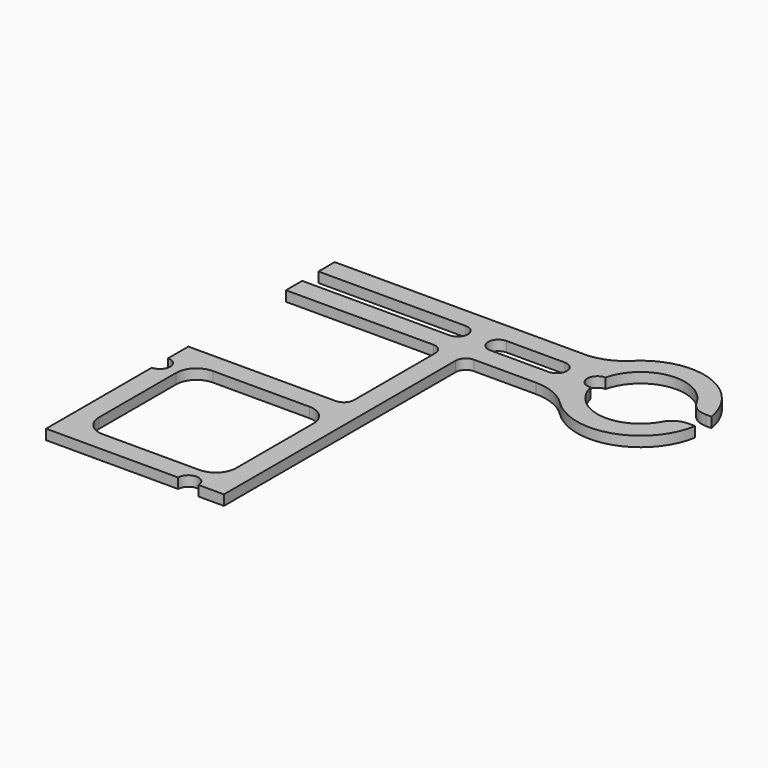
from build123d import *

# Parameters (mm, degrees)
SKETCH_W    = 13.5
SKETCH_H    = 13.5
PAD_DEPTH   = 1
FILLET_R    = 2
FILLET001_R = 5
FILLET002_R = 1
FILLET003_R = 2


with BuildPart() as fillet003:
    # Sketch → Pad (new body)
    with BuildSketch(Plane.XY):
        with BuildLine():
            Line((0, 35.5), (-27.017072, 35.5))
            ThreePointArc((-27.017072, 35.5), (-33.557279, 38.659924), (-38.669481, 33.5))
            Line((-38.669481, 33.5), (-36.75, 33.5))
            ThreePointArc((-28.25, 33.5), (-32.5, 36.866062), (-36.75, 33.5))
            ThreePointArc((-28.367647, 31.506945), (-27.251738, 32.441074), (-28.25, 33.5))
            ThreePointArc((-36.630678, 31.5), (-32.496428, 28.250002), (-28.367647, 31.506945))
            Line((-38.669481, 31.5), (-36.630678, 31.5))
            ThreePointArc((-38.669481, 31.5), (-33.557279, 26.340076), (-27.017072, 29.5))
            Line((-27.017072, 29.5), (-17.5, 29.5))
            Line((-17.5, 29.5), (-17.5, 0))
            Line((-17.5, 0), (-15, 0))
            ThreePointArc((-13, 0), (-14, 1), (-15, 0))
            Line((0, 0), (-13, 0))
            Line((0, 13), (0, 0))
            ThreePointArc((0, 15), (-1, 14), (0, 13))
            Line((0, 17.5), (0, 15))
            Line((0, 17.5), (-15.5, 17.5))
            Line((-15.5, 17.5), (-15.5, 29.5))
            Line((-15.5, 29.5), (0, 29.5))
            Line((0, 29.5), (0, 31.5))
            Line((-14.5, 31.5), (0, 31.5))
            ThreePointArc((-14.5, 33.5), (-15.5, 32.5), (-14.5, 31.5))
            Line((-14.5, 33.5), (0, 33.5))
            Line((0, 33.5), (0, 35.5))
        make_face()
        with Locations((-8.75, 8.75)):
            Rectangle(SKETCH_W, SKETCH_H, mode=Mode.SUBTRACT)
        with BuildLine():
            ThreePointArc((-24.25, 33.5), (-25.25, 32.5), (-24.25, 31.5))
            Line((-24.25, 31.5), (-18.5, 31.5))
            ThreePointArc((-18.5, 31.5), (-17.5, 32.5), (-18.5, 33.5))
            Line((-24.25, 33.5), (-18.5, 33.5))
        make_face(mode=Mode.SUBTRACT)
    extrude(amount=PAD_DEPTH)

    # Fillet
    fillet_edges = [fillet003.edges().sort_by_distance(p)[0] for p in [
        (-36.75, 33.5, 0.5),
        (-36.630678, 31.5, 0.5),
    ]]
    fillet(fillet_edges, radius=FILLET_R)

    # Fillet001
    fillet001_edges = [fillet003.edges().sort_by_distance(p)[0] for p in [
        (-27.017072, 29.5, 0.5),
        (-27.017072, 35.5, 0.5),
    ]]
    fillet(fillet001_edges, radius=FILLET001_R)

    # Fillet002
    fillet002_edges = [fillet003.edges().sort_by_distance(p)[0] for p in [
        (-15.5, 17.5, 0.5),
        (-15.5, 29.5, 0.5),
        (-17.5, 29.5, 0.5),
    ]]
    fillet(fillet002_edges, radius=FILLET002_R)

    # Fillet003
    fillet003_edges = [fillet003.edges().sort_by_distance(p)[0] for p in [
        (-15.5, 15.5, 0.5),
        (-2, 15.5, 0.5),
        (-2, 2, 0.5),
        (-15.5, 2, 0.5),
    ]]
    fillet(fillet003_edges, radius=FILLET003_R)


with BuildPart() as part_mirroring:
    # Part__Mirroring: instance of Fillet003
    add(fillet003.part.mirror(Plane(origin=(0, 0, 0), x_dir=(1, 0, 0), z_dir=(0, 1, 0))))


with BuildPart() as part_mirroring001:
    # Part__Mirroring001: instance of Part__Mirroring
    add(part_mirroring.part.mirror(Plane(origin=(0, 0, 0), x_dir=(0, -1, 0), z_dir=(1, 0, 0))))


with BuildPart() as part_mirroring002:
    # Part__Mirroring002: instance of Part__Mirroring001
    add(part_mirroring001.part.mirror(Plane(origin=(0, 0, 0), x_dir=(1, 0, 0), z_dir=(0, 1, 0))))


solid = part_mirroring002.part
